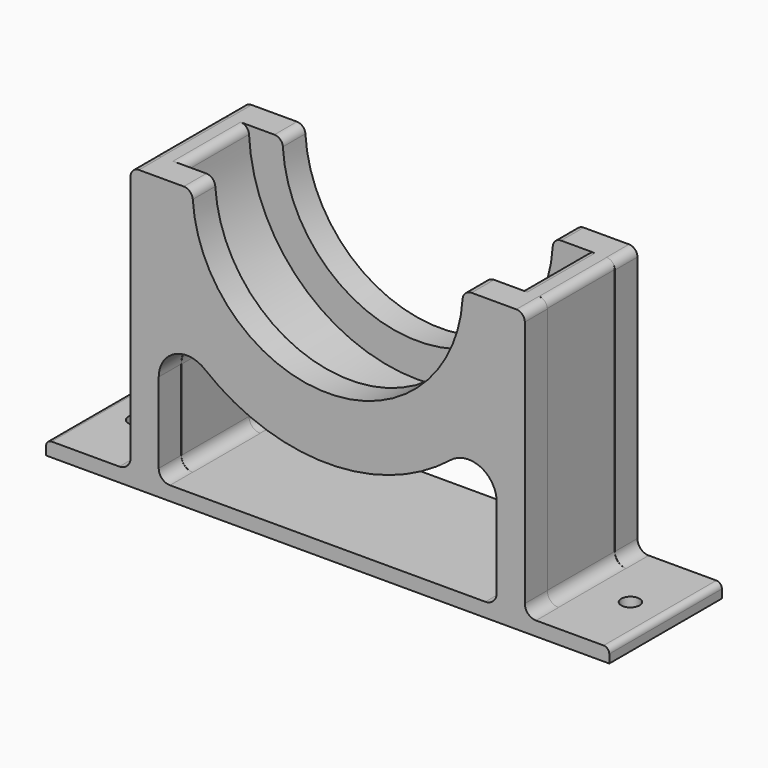
from build123d import *

# Parameters (mm, degrees)
PAD_DEPTH    = 30
PAD001_DEPTH = 10
PAD002_DEPTH = 10
SKETCH003_R  = 3.25
POCKET_DEPTH = 5


with BuildPart() as part:
    # Sketch → Pad (new body)
    with BuildSketch(Plane.XZ):
        with BuildLine():
            ThreePointArc((-59.931934, 97.142857), (0, 40), (59.931934, 97.142857))
            ThreePointArc((62.928531, 100), (60.858334, 99.171241), (59.931934, 97.142857))
            Line((62.928531, 100), (67.074791, 100))
            ThreePointArc((69.931934, 97.142857), (69.095096, 99.163162), (67.074791, 100))
            Line((69.931934, 97.142857), (69.931934, 9))
            ThreePointArc((69.931934, 9), (71.103507, 6.171573), (73.931934, 5))
            Line((73.931934, 5), (98, 5))
            ThreePointArc((100, 3), (99.414214, 4.414214), (98, 5))
            Line((100, 0), (100, 3))
            Line((-100, 0), (100, 0))
            Line((-100, 3), (-100, 0))
            ThreePointArc((-98, 5), (-99.414214, 4.414214), (-100, 3))
            Line((-73.931934, 5), (-98, 5))
            ThreePointArc((-73.931934, 5), (-71.103507, 6.171573), (-69.931934, 9))
            Line((-69.931934, 97.142857), (-69.931934, 9))
            ThreePointArc((-67.074791, 100), (-69.095096, 99.163162), (-69.931934, 97.142857))
            Line((-67.074791, 100), (-62.928531, 100))
            ThreePointArc((-59.931934, 97.142857), (-60.858334, 99.171241), (-62.928531, 100))
        make_face()
        with BuildLine():
            ThreePointArc((-43.690442, 45.308636), (0, 30), (43.690442, 45.308636))
            ThreePointArc((59.931934, 37.495585), (54.266971, 46.507103), (43.690442, 45.308636))
            Line((59.931934, 9), (59.931934, 37.495585))
            ThreePointArc((55.931934, 5), (58.760361, 6.171573), (59.931934, 9))
            Line((-55.931934, 5), (55.931934, 5))
            ThreePointArc((-59.931934, 9), (-58.760361, 6.171573), (-55.931934, 5))
            Line((-59.931934, 37.495585), (-59.931934, 9))
            ThreePointArc((-43.690442, 45.308636), (-54.266971, 46.507103), (-59.931934, 37.495585))
        make_face(mode=Mode.SUBTRACT)
    extrude(amount=PAD_DEPTH)

    # Sketch001 (on Face28 of Pad) → Pad001 (join)
    with BuildSketch(Plane.XZ.offset(30)):
        with BuildLine():
            ThreePointArc((-47.906158, 97), (0, 52), (47.906158, 97))
            ThreePointArc((51.099902, 100), (48.909012, 99.132381), (47.906158, 97))
            Line((51.099902, 100), (67, 100))
            ThreePointArc((70, 97), (69.12132, 99.12132), (67, 100))
            Line((70, 97), (70, 9))
            ThreePointArc((70, 9), (71.171573, 6.171573), (74, 5))
            Line((74, 5), (98, 5))
            ThreePointArc((100, 3), (99.414214, 4.414214), (98, 5))
            Line((100, 3), (100, 0))
            Line((100, 0), (-100, 0))
            Line((-100, 0), (-100, 3))
            ThreePointArc((-98, 5), (-99.414214, 4.414214), (-100, 3))
            Line((-98, 5), (-74, 5))
            ThreePointArc((-74, 5), (-71.171573, 6.171573), (-70, 9))
            Line((-70, 97), (-70, 9))
            ThreePointArc((-67, 100), (-69.12132, 99.12132), (-70, 97))
            Line((-67, 100), (-51.099902, 100))
            ThreePointArc((-47.906158, 97), (-48.909012, 99.132381), (-51.099902, 100))
        make_face()
        with BuildLine():
            ThreePointArc((-43.75, 45.356268), (0, 30), (43.75, 45.356268))
            ThreePointArc((60, 37.55002), (54.330127, 46.563898), (43.75, 45.356268))
            Line((60, 9), (60, 37.55002))
            ThreePointArc((56, 5), (58.828427, 6.171573), (60, 9))
            Line((-56, 5), (56, 5))
            ThreePointArc((-60, 9), (-58.828427, 6.171573), (-56, 5))
            Line((-60, 37.55002), (-60, 9))
            ThreePointArc((-43.75, 45.356268), (-54.330127, 46.563898), (-60, 37.55002))
        make_face(mode=Mode.SUBTRACT)
    extrude(amount=PAD001_DEPTH)

    # Sketch002 (on Face4 of Pad001) → Pad002 (join)
    with BuildSketch(Plane(origin=(0, 0, 0), x_dir=(1, 0, 0), z_dir=(0, 1, 0))):
        with BuildLine():
            ThreePointArc((47.916883, -97.176471), (0, -52), (-47.916883, -97.176471))
            ThreePointArc((-50.911688, -100), (-48.853705, -99.182821), (-47.916883, -97.176471))
            Line((-50.911688, -100), (-67, -100))
            ThreePointArc((-70, -97), (-69.12132, -99.12132), (-67, -100))
            Line((-70, -9), (-70, -97))
            ThreePointArc((-70, -9), (-71.171573, -6.171573), (-74, -5))
            Line((-98, -5), (-74, -5))
            ThreePointArc((-100, -3), (-99.414214, -4.414214), (-98, -5))
            Line((-100, 0), (-100, -3))
            Line((100, 0), (-100, 0))
            Line((100, -3), (100, 0))
            ThreePointArc((98, -5), (99.414214, -4.414214), (100, -3))
            Line((74, -5), (98, -5))
            ThreePointArc((74, -5), (71.171573, -6.171573), (70, -9))
            Line((70, -97), (70, -9))
            ThreePointArc((67, -100), (69.12132, -99.12132), (70, -97))
            Line((50.911688, -100), (67, -100))
            ThreePointArc((47.916883, -97.176471), (48.853705, -99.182821), (50.911688, -100))
        make_face()
        with BuildLine():
            ThreePointArc((43.75, -45.356268), (0, -30), (-43.75, -45.356268))
            ThreePointArc((-60, -37.55002), (-54.330127, -46.563898), (-43.75, -45.356268))
            Line((-60, -37.55002), (-60, -9))
            ThreePointArc((-56, -5), (-58.828427, -6.171573), (-60, -9))
            Line((-56, -5), (56, -5))
            ThreePointArc((60, -9), (58.828427, -6.171573), (56, -5))
            Line((60, -9), (60, -37.55002))
            ThreePointArc((43.75, -45.356268), (54.330127, -46.563898), (60, -37.55002))
        make_face(mode=Mode.SUBTRACT)
    extrude(amount=PAD002_DEPTH)

    # Sketch003 (on Face75 of Pad002) → Pocket (cut)
    with BuildSketch(Plane(origin=(0, 0, 5), x_dir=(-1, 0, 0), z_dir=(0, 0, 1))):
        with Locations((-87.5, 15)):
            Circle(SKETCH003_R)
        with Locations((87.5, 15)):
            Circle(SKETCH003_R)
    extrude(amount=-POCKET_DEPTH, mode=Mode.SUBTRACT)


solid = part.part
